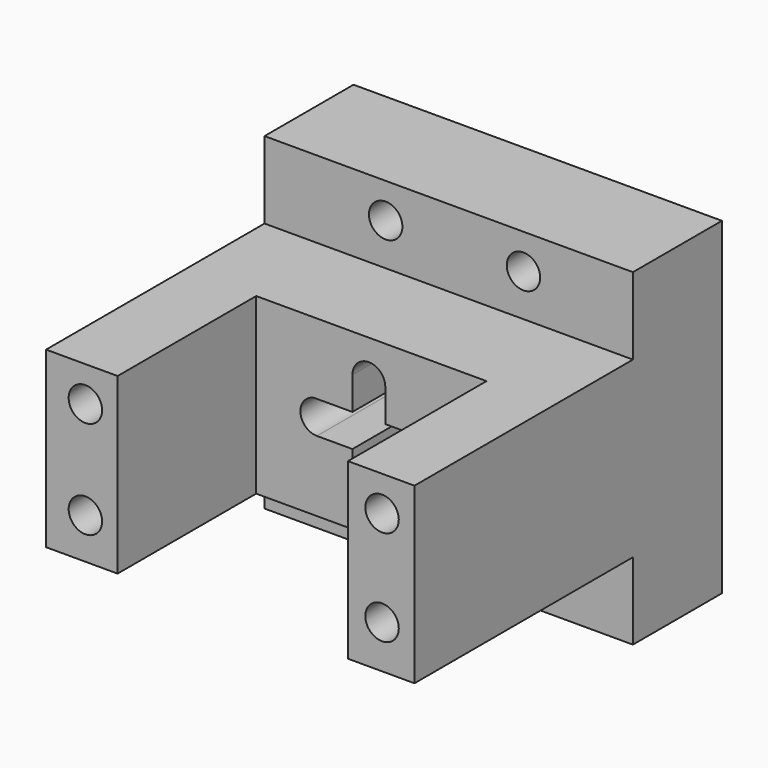
from build123d import *

# Parameters (mm, degrees)
F0_W     = 99.5807871222
F0_H     = 88.644169271
F1_DEPTH = 103.886
F2_W     = 73.8110467792
F2_H     = 20.8082981408
F3_DEPTH = 202.184
F4_R     = 4.5190102714
F5_DEPTH = 183.388
F6_W     = 62.2652955353
F6_H     = 46.8279197812
F7_DEPTH = 52.07
F9_DEPTH = 124.46


with BuildPart() as f1:
    # F0 (on Front) → F1 (new body)
    with BuildSketch(Plane.XZ):
        Rectangle(F0_W, F0_H)
    extrude(amount=-F1_DEPTH)

    # F2 (on face) → F3 (cut)
    with BuildSketch(Plane.YZ.offset(49.7903935611)):
        with Locations((36.9055233896, 33.9179355651)):
            Rectangle(F2_W, F2_H)
        with Locations((36.9055233896, -33.9179355651)):
            Rectangle(F2_W, F2_H)
    extrude(amount=-F3_DEPTH, mode=Mode.SUBTRACT)

    # F4 (on Front) → F5 (cut)
    with BuildSketch(Plane.XZ):
        with Locations((-17.0435514301, 34.876152873)):
            Circle(F4_R)
        with Locations((20.1997645199, 34.876152873)):
            Circle(F4_R)
        with Locations((-17.0435514301, -36.7698818445)):
            Circle(F4_R)
        with Locations((20.1997645199, -36.7698818445)):
            Circle(F4_R)
        with Locations((-39.168164134, 14.0042221174)):
            Circle(F4_R)
        with Locations((-39.168164134, -12.4670416117)):
            Circle(F4_R)
        with Locations((41.0307683051, 14.0451472253)):
            Circle(F4_R)
        with Locations((41.0307683051, -11.8357995525)):
            Circle(F4_R)
    extrude(amount=-F5_DEPTH, mode=Mode.SUBTRACT)

    # F6 (on face) → F7 (cut)
    with BuildSketch(Plane.XY.offset(23.5137864947)):
        with Locations((0.6743837148, 23.4139598906)):
            Rectangle(F6_W, F6_H)
    extrude(amount=-F7_DEPTH, mode=Mode.SUBTRACT)

    # F8 (on face) → F9 (cut)
    with BuildSketch(Plane.XZ.offset(-46.8279197812)):
        with BuildLine():
            Line((-4.445, 4.3847536734), (-14.7820186248, 4.3847536734))
            ThreePointArc((-14.7820186248, 4.3847536734), (-18.4844560039, -0.342391801), (-14.0998682729, -4.4447493319))
            Line((-14.0998682729, -4.4447493319), (-14.0055365282, -4.4447501768))
            Line((-14.0055365282, -4.4447501768), (-4.445, -4.444835806))
            Line((-4.445, -4.444835806), (-4.445, -14.7025363844))
            ThreePointArc((-4.445, -14.7025363844), (3.51265e-05, -19.1475363843), (4.4449999994, -14.7024661314))
            Line((4.4449999994, -14.7024661314), (4.4448378792, -4.4449154281))
            Line((4.4448378792, -4.4449154281), (13.8872975972, -4.4449999998))
            ThreePointArc((13.8872975972, -4.4449999998), (18.3172518615, 0.3659001816), (13.1579813752, 4.3847536734))
            Line((13.1579813752, 4.3847536734), (4.4446983265, 4.3847536734))
            Line((4.4446983265, 4.3847536734), (4.4445593988, 13.1748796689))
            ThreePointArc((4.4445593988, 13.1748796689), (0.0312927488, 17.6823534639), (-4.445, 13.2374636156))
            Line((-4.445, 13.2374636156), (-4.445, 4.3847536734))
        make_face()
    extrude(amount=-F9_DEPTH, mode=Mode.SUBTRACT)


solid = f1.part
